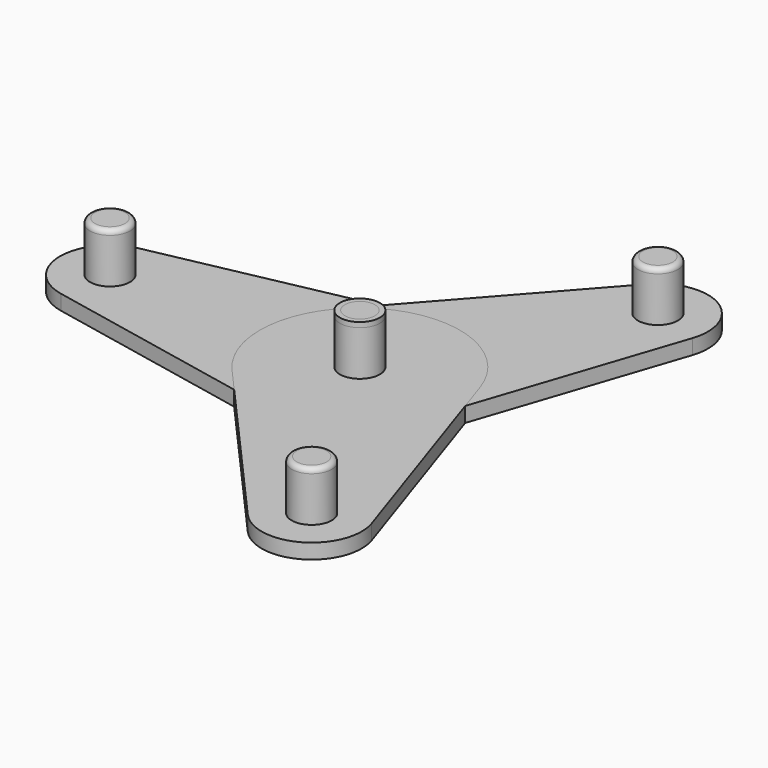
from build123d import *

# Parameters (mm, degrees)
F0_R     = 6.35
F1_DEPTH = 3.81
F2_R     = 5.08
F3_DEPTH = 12.7
F5_COUNT = 3
F6_R     = 1.27
F6_2_R   = 1.27


with BuildPart() as f1:
    # F0 (on Top) → F1 (new body)
    with BuildSketch(Plane.XY):
        with BuildLine():
            ThreePointArc((-50.8, 0), (-55.467815, 9.837378), (-66.04, 12.443408))
            ThreePointArc((-66.04, 12.443408), (-76.2, 0), (-66.04, -12.443408))
            ThreePointArc((-66.04, -12.443408), (-55.467815, -9.837378), (-50.8, 0))
        make_face()
        with Locations((-63.5, 0)):
            Circle(F0_R, mode=Mode.SUBTRACT)
        with BuildLine():
            ThreePointArc((-5.08, -24.886816), (16.064371, -19.674755), (25.4, 0))
            ThreePointArc((25.4, 0), (16.064371, 19.674755), (-5.08, 24.886816))
            ThreePointArc((-5.08, 24.886816), (-25.4, 0), (-5.08, -24.886816))
        make_face()
        Circle(F0_R, mode=Mode.SUBTRACT)
        with BuildLine():
            ThreePointArc((-5.08, -24.886816), (-25.4, 0), (-5.08, 24.886816))
            Line((-5.08, 24.886816), (-66.04, 12.443408))
            ThreePointArc((-66.04, 12.443408), (-55.467815, 9.837378), (-50.8, 0))
            ThreePointArc((-50.8, 0), (-55.467815, -9.837378), (-66.04, -12.443408))
            Line((-66.04, -12.443408), (-5.08, -24.886816))
        make_face()
        with Locations((-63.5, 0)):
            Circle(F0_R)
        Circle(F0_R)
    extrude(amount=F1_DEPTH)

    # F2 (on face) → F3 (join)
    with BuildSketch(Plane.XY.offset(3.81)):
        with Locations((-63.5, 0)):
            Circle(F2_R)
        Circle(F2_R)
    extrude(amount=F3_DEPTH)

    # F6
    f6_edges = [f1.edges().sort_by_distance(p)[0] for p in [
        (-68.58, 0, 16.51),
    ]]
    fillet(f6_edges, radius=F6_R)


with BuildPart() as f5_1:
    # F5: instance of F1
    add(f1.part.rotate(Axis((0, 0, -8.404091), (0, 0, -1)), 1 * 360 / F5_COUNT))


with BuildPart() as f5_2:
    # F5: instance of F1
    add(f1.part.rotate(Axis((0, 0, -8.404091), (0, 0, -1)), 2 * 360 / F5_COUNT))

    # F6#2
    f6_2_edges = [f5_2.edges().sort_by_distance(p)[0] for p in [
        (-5.08, 0, 16.51),
    ]]
    fillet(f6_2_edges, radius=F6_2_R)


solid = Compound([f1.part, f5_1.part, f5_2.part])
